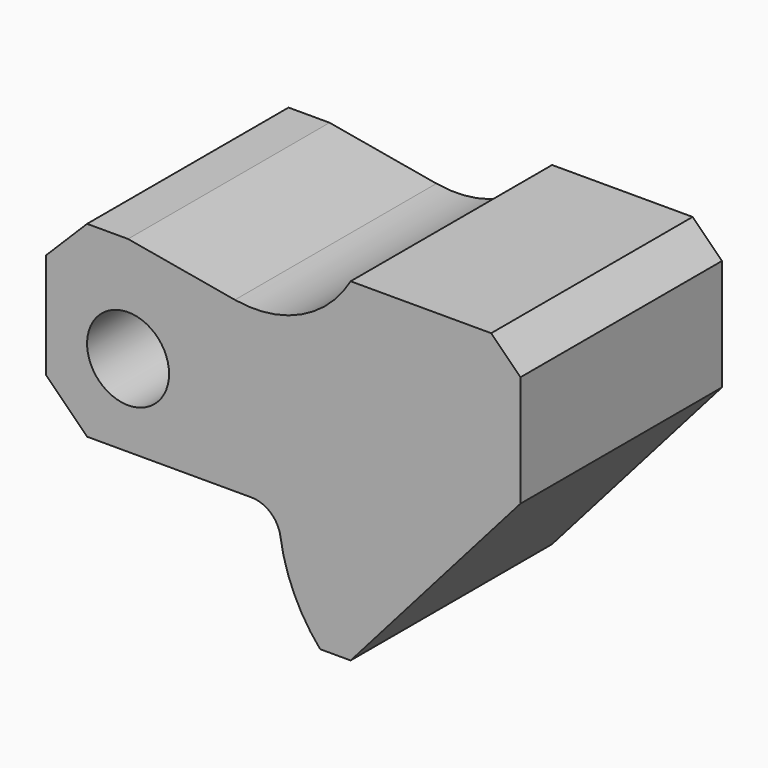
from build123d import *

# Parameters (mm, degrees)
F0_R     = 7
F1_DEPTH = 43


with BuildPart() as f1:
    # F0 (on Front) → F1 (new body)
    with BuildSketch(Plane.XZ):
        with BuildLine():
            Line((-14, 11), (-14, -7))
            Line((-14, -7), (-7, -14))
            Line((-7, -14), (21.066626, -14))
            ThreePointArc((21.066626, -14), (24.331862, -15.213414), (26.012265, -18.264706))
            ThreePointArc((26.012265, -18.264706), (28.349095, -26.115672), (32.788067, -33))
            Line((32.788067, -33), (38, -33))
            Line((38, -33), (67, 0))
            Line((67, 0), (67, 19))
            Line((67, 19), (62, 24))
            Line((62, 24), (38, 24))
            ThreePointArc((38, 24), (29.574973, 16.276069), (18.243085, 14.783252))
            Line((18.243085, 14.783252), (0, 18))
            Line((0, 18), (-7, 18))
            Line((-7, 18), (-14, 11))
        make_face()
        Circle(F0_R, mode=Mode.SUBTRACT)
    extrude(amount=-F1_DEPTH)


solid = f1.part
